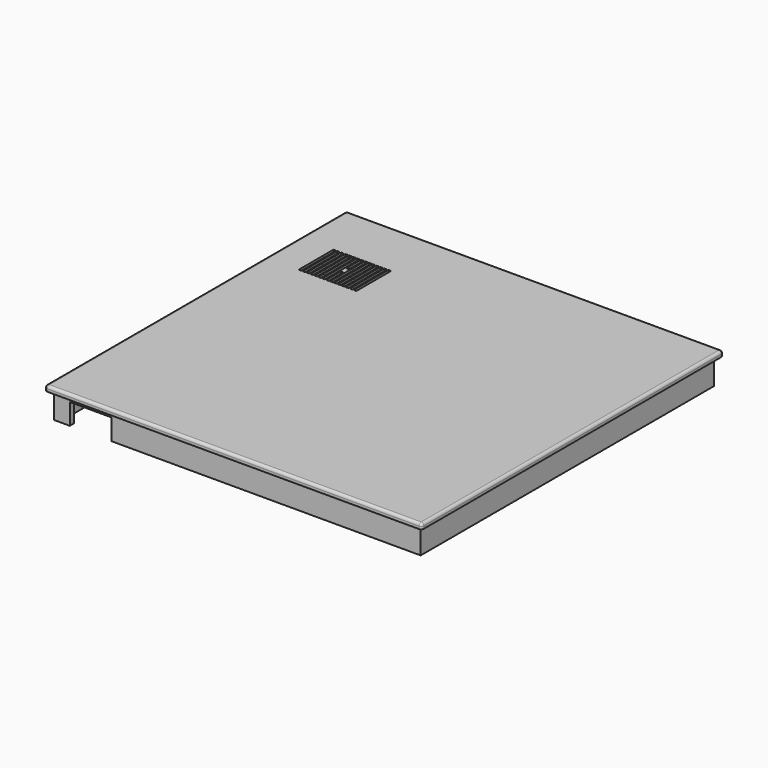
from build123d import *

# Parameters (mm, degrees)
SKETCH_W        = 720
SKETCH_H        = 720
PAD_DEPTH       = 10
SKETCH001_W     = 700
SKETCH001_H     = 700
SKETCH001_W_2   = 680
SKETCH001_H_2   = 680
PAD001_DEPTH    = 50
SKETCH002_W     = 46
SKETCH002_H     = 40
SKETCH002_H_2   = 200
PAD002_DEPTH    = 10
SKETCH003_W     = 46
SKETCH003_H     = 61
PAD003_DEPTH    = 5
SKETCH004_W     = 132
SKETCH004_H     = 61
PAD004_DEPTH    = 46
POCKET_DEPTH    = 61
SKETCH006_R     = 2.5
PAD005_DEPTH    = 14
POCKET001_DEPTH = 10
SKETCH008_W     = 5
SKETCH008_H     = 83
SKETCH008_H_2   = 35
POCKET002_DEPTH = 10
FILLET_R        = 3
FILLET001_R     = 3
FILLET002_R     = 1
FILLET003_R     = 5
SKETCH009_W     = 80
SKETCH009_H     = 40
POCKET003_DEPTH = 10


with BuildPart() as part:
    # Sketch → Pad (new body)
    with BuildSketch(Plane.XY):
        Rectangle(SKETCH_W, SKETCH_H)
    extrude(amount=PAD_DEPTH)

    # Sketch001 (on Face5 of Pad) → Pad001 (join)
    with BuildSketch(Plane(origin=(0, 0, 0), x_dir=(1, 0, 0), z_dir=(0, 0, -1))):
        Rectangle(SKETCH001_W, SKETCH001_H)
        Rectangle(SKETCH001_W_2, SKETCH001_H_2, mode=Mode.SUBTRACT)
    extrude(amount=PAD001_DEPTH)

    # Sketch002 (on Face16 of Pad001) → Pad002 (join)
    with BuildSketch(Plane(origin=(0, 0, 0), x_dir=(1, 0, 0), z_dir=(0, 0, -1))):
        with Locations((282, -285)):
            Rectangle(SKETCH002_W, SKETCH002_H)
        with Locations((231, -285)):
            Rectangle(SKETCH002_W, SKETCH002_H)
        with Locations((282, -84)):
            Rectangle(SKETCH002_W, SKETCH002_H_2)
        with Locations((231, -84)):
            Rectangle(SKETCH002_W, SKETCH002_H_2)
    extrude(amount=PAD002_DEPTH)

    # Sketch003 (on Face16 of Pad002) → Pad003 (join)
    with BuildSketch(Plane(origin=(0, 0, 0), x_dir=(1, 0, 0), z_dir=(0, 0, -1))):
        with Locations((231, -224.5)):
            Rectangle(SKETCH003_W, SKETCH003_H)
        with Locations((282, -224.5)):
            Rectangle(SKETCH003_W, SKETCH003_H)
    extrude(amount=PAD003_DEPTH)

    # Sketch004 (on Face16 of Pad003) → Pad004 (join)
    with BuildSketch(Plane(origin=(0, 0, 0), x_dir=(1, 0, 0), z_dir=(0, 0, -1))):
        with Locations((-174, 209.5)):
            Rectangle(SKETCH004_W, SKETCH004_H)
    extrude(amount=PAD004_DEPTH)

    # Sketch005 (on Face42 of Pad004) → Pocket (cut)
    with BuildSketch(Plane(origin=(0, -179, 0), x_dir=(-1, 0, 0), z_dir=(0, 1, 0))):
        Polygon((108, -46), (240, -46), (179, 0), (169, 0), align=None)
    extrude(amount=-POCKET_DEPTH, mode=Mode.SUBTRACT)

    # Sketch006 (on Face16 of Pocket) → Pad005 (join)
    with BuildSketch(Plane(origin=(0, 0, 0), x_dir=(1, 0, 0), z_dir=(0, 0, -1))):
        with Locations((-241.5, -208.5)):
            Circle(SKETCH006_R)
    extrude(amount=PAD005_DEPTH)

    # Sketch007 (on Face13 of Pad005) → Pocket001 (cut)
    with BuildSketch(Plane.XZ.offset(-340)):
        with BuildLine():
            ThreePointArc((-292.75, -25), (-307.75, -10), (-322.75, -25))
            Line((-322.75, -50), (-322.75, -25))
            Line((-322.75, -50), (-292.75, -50))
            Line((-292.75, -50), (-292.75, -25))
        make_face()
    extrude(amount=-POCKET001_DEPTH, mode=Mode.SUBTRACT)

    # Sketch008 (on Face19 of Pocket001) → Pocket002 (cut)
    with BuildSketch(Plane(origin=(0, 0, 0), x_dir=(1, 0, 0), z_dir=(0, 0, -1))):
        with Locations((-286.5, -208.5)):
            Rectangle(SKETCH008_W, SKETCH008_H)
        with Locations((-279, -208.5)):
            Rectangle(SKETCH008_W, SKETCH008_H)
        with Locations((-271.5, -208.5)):
            Rectangle(SKETCH008_W, SKETCH008_H)
        with Locations((-264, -208.5)):
            Rectangle(SKETCH008_W, SKETCH008_H)
        with Locations((-256.5, -208.5)):
            Rectangle(SKETCH008_W, SKETCH008_H)
        with Locations((-249, -208.5)):
            Rectangle(SKETCH008_W, SKETCH008_H)
        with Locations((-234, -208.5)):
            Rectangle(SKETCH008_W, SKETCH008_H)
        with Locations((-226.5, -208.5)):
            Rectangle(SKETCH008_W, SKETCH008_H)
        with Locations((-241.5, -184.5)):
            Rectangle(SKETCH008_W, SKETCH008_H_2)
        with Locations((-241.5, -232.5)):
            Rectangle(SKETCH008_W, SKETCH008_H_2)
        with Locations((-219, -208.5)):
            Rectangle(SKETCH008_W, SKETCH008_H)
        with Locations((-211.5, -208.5)):
            Rectangle(SKETCH008_W, SKETCH008_H)
        with Locations((-204, -208.5)):
            Rectangle(SKETCH008_W, SKETCH008_H)
        with Locations((-196.5, -208.5)):
            Rectangle(SKETCH008_W, SKETCH008_H)
        with Locations((-294, -208.5)):
            Rectangle(SKETCH008_W, SKETCH008_H)
        with Locations((-189, -208.5)):
            Rectangle(SKETCH008_W, SKETCH008_H)
    extrude(amount=-POCKET002_DEPTH, mode=Mode.SUBTRACT)

    # Fillet
    fillet_edges = [part.edges().sort_by_distance(p)[0] for p in [
        (-307.75, 340, -10),
        (-307.75, 350, -10),
        (-322.75, 340, -37.5),
        (-292.75, 340, -37.5),
        (-292.75, 350, -37.5),
        (-322.75, 350, -37.5),
    ]]
    fillet(fillet_edges, radius=FILLET_R)

    # Fillet001
    fillet001_edges = [part.edges().sort_by_distance(p)[0] for p in [
        (208, 285, -10),
        (231, 305, -10),
        (231, 265, -10),
        (254, 285, -10),
        (259, 285, -10),
        (282, 305, -10),
        (282, 265, -10),
        (305, 285, -10),
        (305, 224.5, -5),
        (282, 255, -5),
        (259, 224.5, -5),
        (282, 194, -5),
        (254, 224.5, -5),
        (231, 255, -5),
        (208, 224.5, -5),
        (231, 194, -5),
        (208, 84, -10),
        (231, 184, -10),
        (254, 84, -10),
        (231, -16, -10),
        (259, 84, -10),
        (282, -16, -10),
        (305, 84, -10),
        (282, 184, -10),
    ]]
    fillet(fillet001_edges, radius=FILLET001_R)

    # Fillet002
    fillet002_edges = [part.edges().sort_by_distance(p)[0] for p in [
        (-209.5, -179, -23),
        (-209.5, -240, -23),
        (-138.5, -179, -23),
        (-138.5, -240, -23),
        (-240, -209.5, -46),
        (-108, -209.5, -46),
    ]]
    fillet(fillet002_edges, radius=FILLET002_R)

    # Fillet003
    fillet003_edges = [part.edges().sort_by_distance(p)[0] for p in [
        (-360, 0, 10),
        (0, -360, 10),
        (-360, -360, 5),
        (-360, 360, 5),
        (0, 360, 10),
        (360, 360, 5),
        (360, 0, 10),
        (360, -360, 5),
    ]]
    fillet(fillet003_edges, radius=FILLET003_R)

    # Sketch009 (on Face123 of Fillet003) → Pocket003 (cut)
    with BuildSketch(Plane.XZ.offset(350)):
        with Locations((-280, -30)):
            Rectangle(SKETCH009_W, SKETCH009_H)
    extrude(amount=-POCKET003_DEPTH, mode=Mode.SUBTRACT)


solid = part.part
